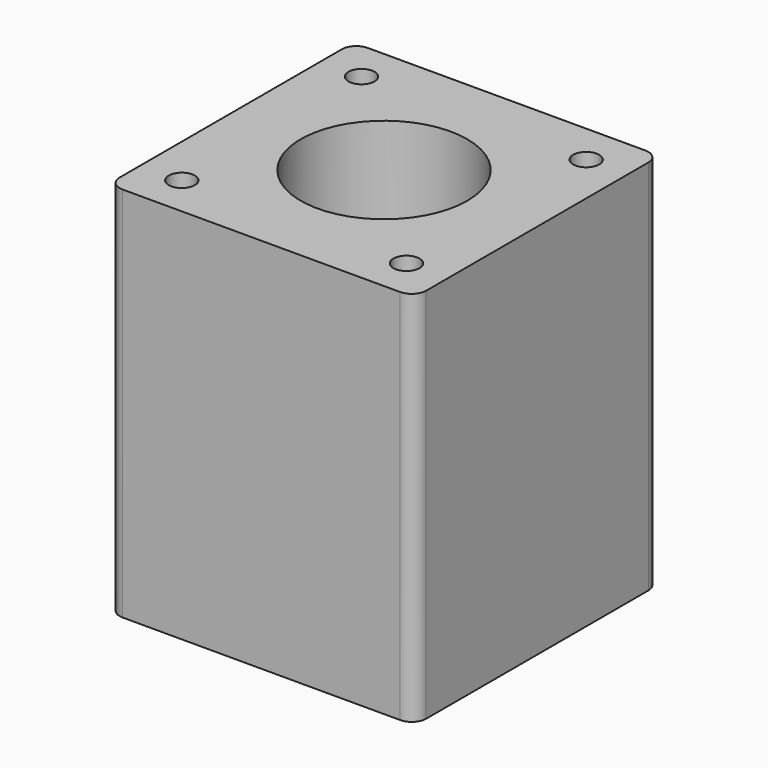
from build123d import *

# Parameters (mm, degrees)
SKETCH_W     = 42.3
SKETCH_H     = 42.3
SKETCH_R     = 1.8
SKETCH_R_2   = 11.5
PAD_DEPTH    = 52
SKETCH001_W  = 23
SKETCH001_H  = 30
POCKET_DEPTH = 21.15
CHAMFER_SIZE = 4
FILLET_R     = 2
FILLET001_R  = 2


with BuildPart() as part:
    # Sketch → Pad (new body)
    with BuildSketch(Plane.XY):
        with Locations((21.15, 21.15)):
            Rectangle(SKETCH_W, SKETCH_H)
        with Locations((5.65, 36.65)):
            Circle(SKETCH_R, mode=Mode.SUBTRACT)
        with Locations((36.65, 36.65)):
            Circle(SKETCH_R, mode=Mode.SUBTRACT)
        with Locations((36.65, 5.65)):
            Circle(SKETCH_R, mode=Mode.SUBTRACT)
        with Locations((5.65, 5.65)):
            Circle(SKETCH_R, mode=Mode.SUBTRACT)
        with Locations((21.15, 21.15)):
            Circle(SKETCH_R_2, mode=Mode.SUBTRACT)
    extrude(amount=PAD_DEPTH)

    # Sketch001 (on Face1 of Pad) → Pocket (cut)
    with BuildSketch(Plane(origin=(0, 42.3, 0), x_dir=(-1, 0, 0), z_dir=(0, 1, 0))):
        with Locations((-21.15, 21)):
            Rectangle(SKETCH001_W, SKETCH001_H)
    extrude(amount=-POCKET_DEPTH, mode=Mode.SUBTRACT)

    # Chamfer
    chamfer_edges = [part.edges().sort_by_distance(p)[0] for p in [
        (9.65, 42.3, 21),
        (32.65, 42.3, 21),
    ]]
    chamfer(chamfer_edges, length=CHAMFER_SIZE)

    # Fillet
    fillet_edges = [part.edges().sort_by_distance(p)[0] for p in [
        (42.3, 0, 26),
        (0, 0, 26),
        (42.3, 42.3, 26),
        (0, 42.3, 26),
    ]]
    fillet(fillet_edges, radius=FILLET_R)

    # Fillet001
    fillet001_edges = [part.edges().sort_by_distance(p)[0] for p in [
        (21.15, 42.3, 36),
        (21.15, 42.3, 6),
    ]]
    fillet(fillet001_edges, radius=FILLET001_R)


solid = part.part
